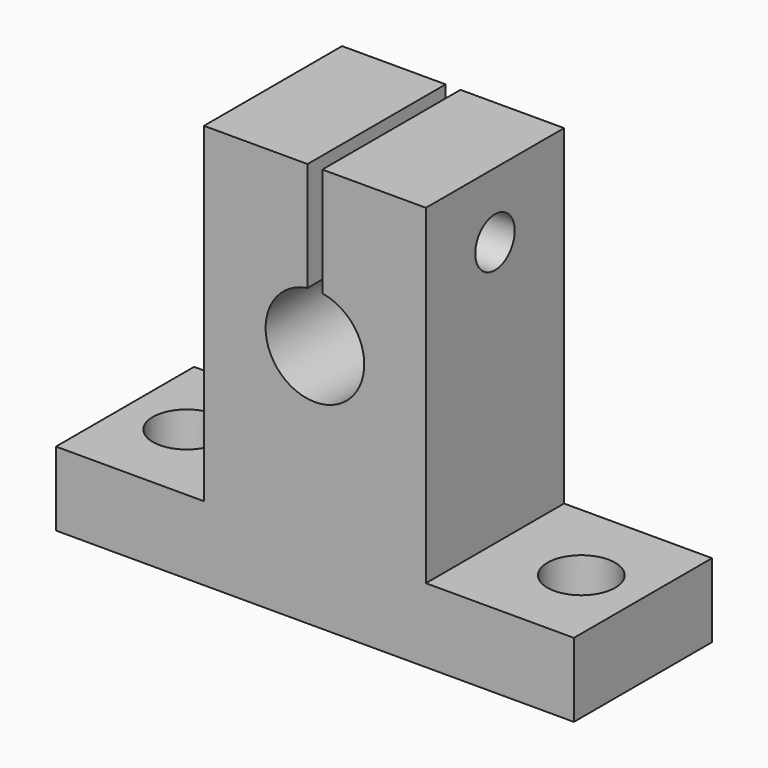
from build123d import *

# Parameters (mm, degrees)
OBJ1_R                     = 2.75
OBJ1_DEPTH                 = 8
OBJ2                     = 2.75
OBJ3                 = 8
OBJ4_PLACEMENT_ANGLE        = 90
TBOLT_SHAFT_R                    = 2
TBOLT_SHAFT_DEPTH                = 20
TBOLT_SHAFT_ROLL_ANGLE           = 90
UP_SEP_W                         = 16
UP_SEP_H                         = 1.2
UP_SEP_DEPTH                     = 13.8
SHAFT_HOLE_R                     = 4
SHAFT_HOLE_DEPTH                 = 16
SHAFT_HOLE_PITCH_ANGLE           = 90
TBOLT_HEAD_R                     = 3.85
TBOLT_HEAD_DEPTH                 = 5.4
TBOLT_HEAD_ROLL_ANGLE            = 90
SIDE_BOX_L_W                     = 14
SIDE_BOX_L_H                     = 12
SIDE_BOX_L_DEPTH                 = 26.8
SIDE_BOX_R_W                     = 14
SIDE_BOX_R_H                     = 12
SIDE_BOX_R_DEPTH                 = 26.8
TOTAL_BOX_W                      = 14
TOTAL_BOX_H                      = 42
TOTAL_BOX_DEPTH                  = 32.8
SK_SHAPE_W_HOLES_PLACEMENT_ANGLE = 90


with BuildPart() as obj1:
    # obj1 → obj1 (new body)
    with BuildSketch(Plane(origin=(7, -16, -1), x_dir=(1, 0, 0), z_dir=(0, 0, 1))):
        Circle(OBJ1_R)
    extrude(amount=OBJ1_DEPTH)


with BuildPart() as obj4:
    with BuildSketch(Plane(origin=(7, 16, -1), x_dir=(1, 0, 0), z_dir=(0, 0, 1))):
        Circle(OBJ2)
    extrude(amount=OBJ3)

    # obj4: union obj1
    add(obj1.part)


with BuildPart() as obj4_1:
    # obj4 placement: moved
    add(obj4.part.moved(Location((0, -7, 0))).rotate(Axis((0, -7, 0), (0, 0, 1)), OBJ4_PLACEMENT_ANGLE))


with BuildPart() as tbolt_shaft:
    # tbolt_shaft → tbolt_shaft (new body)
    with BuildSketch(Plane.XY):
        Circle(TBOLT_SHAFT_R)
    extrude(amount=TBOLT_SHAFT_DEPTH)


with BuildPart() as tbolt_shaft_1:
    # tbolt_shaft roll: moved
    add(tbolt_shaft.part.rotate(Axis((0, 0, 0), (1, 0, 0)), TBOLT_SHAFT_ROLL_ANGLE))


with BuildPart() as tbolt_shaft_2:
    # tbolt_shaft placement: moved
    add(tbolt_shaft_1.part.moved(Location((7, 10, 27.5))))


with BuildPart() as up_sep:
    # up_sep → up_sep (new body)
    with BuildSketch(Plane(origin=(-1, -0.6, 21), x_dir=(1, 0, 0), z_dir=(0, 0, 1))):
        with Locations((8, 0.6)):
            Rectangle(UP_SEP_W, UP_SEP_H)
    extrude(amount=UP_SEP_DEPTH)


with BuildPart() as shaft_hole:
    # shaft_hole → shaft_hole (new body)
    with BuildSketch(Plane.XY):
        Circle(SHAFT_HOLE_R)
    extrude(amount=SHAFT_HOLE_DEPTH)


with BuildPart() as shaft_hole_1:
    # shaft_hole pitch: moved
    add(shaft_hole.part.rotate(Axis((0, 0, 0), (0, 1, 0)), SHAFT_HOLE_PITCH_ANGLE))


with BuildPart() as shaft_hole_2:
    # shaft_hole placement: moved
    add(shaft_hole_1.part.moved(Location((-1, 0, 20))))


with BuildPart() as fuse_shaft_holes:
    # tbolt_head → tbolt_head (new body)
    with BuildSketch(Plane.XY):
        Circle(TBOLT_HEAD_R)
    extrude(amount=TBOLT_HEAD_DEPTH)


with BuildPart() as fuse_shaft_holes_1:
    # tbolt_head roll: moved
    add(fuse_shaft_holes.part.rotate(Axis((0, 0, 0), (1, 0, 0)), TBOLT_HEAD_ROLL_ANGLE))


with BuildPart() as fuse_shaft_holes_2:
    # tbolt_head placement: moved
    add(fuse_shaft_holes_1.part.moved(Location((7, 10, 27.5))))

    # fuse_shaft_holes: union tbolt_shaft, up_sep, shaft_hole
    add(tbolt_shaft_2.part)
    add(up_sep.part)
    add(shaft_hole_2.part)


with BuildPart() as side_box_l:
    # side_box_l → side_box_l (new body)
    with BuildSketch(Plane(origin=(0, -21, 6), x_dir=(1, 0, 0), z_dir=(0, 0, 1))):
        with Locations((7, 6)):
            Rectangle(SIDE_BOX_L_W, SIDE_BOX_L_H)
    extrude(amount=SIDE_BOX_L_DEPTH)


with BuildPart() as side_boxes:
    # side_box_r → side_box_r (new body)
    with BuildSketch(Plane(origin=(0, 9, 6), x_dir=(1, 0, 0), z_dir=(0, 0, 1))):
        with Locations((7, 6)):
            Rectangle(SIDE_BOX_R_W, SIDE_BOX_R_H)
    extrude(amount=SIDE_BOX_R_DEPTH)

    # side_boxes: union side_box_l
    add(side_box_l.part)


with BuildPart() as obj5:
    # total_box → total_box (new body)
    with BuildSketch(Plane(origin=(0, -21, 0), x_dir=(1, 0, 0), z_dir=(0, 0, 1))):
        with Locations((7, 21)):
            Rectangle(TOTAL_BOX_W, TOTAL_BOX_H)
    extrude(amount=TOTAL_BOX_DEPTH)

    # sk_shape: cut side_boxes
    add(side_boxes.part, mode=Mode.SUBTRACT)

    # sk_shape_w_holes: cut fuse_shaft_holes
    add(fuse_shaft_holes_2.part, mode=Mode.SUBTRACT)


with BuildPart() as obj5_1:
    # sk_shape_w_holes placement: moved
    add(obj5.part.moved(Location((0, -7, 0))).rotate(Axis((0, -7, 0), (0, 0, 1)), SK_SHAPE_W_HOLES_PLACEMENT_ANGLE))

    # sky_x_y0: cut obj4
    add(obj4_1.part, mode=Mode.SUBTRACT)


with BuildPart() as obj5_2:
    # sky_x_y0 placement: moved
    add(obj5_1.part.moved(Location((85.25, -56.5, -20))))


with BuildPart() as obj5_3:
    # Clone015 placement: moved
    add(obj5_2.part.moved(Location((-170.5, 178, 0))))


solid = obj5_3.part
